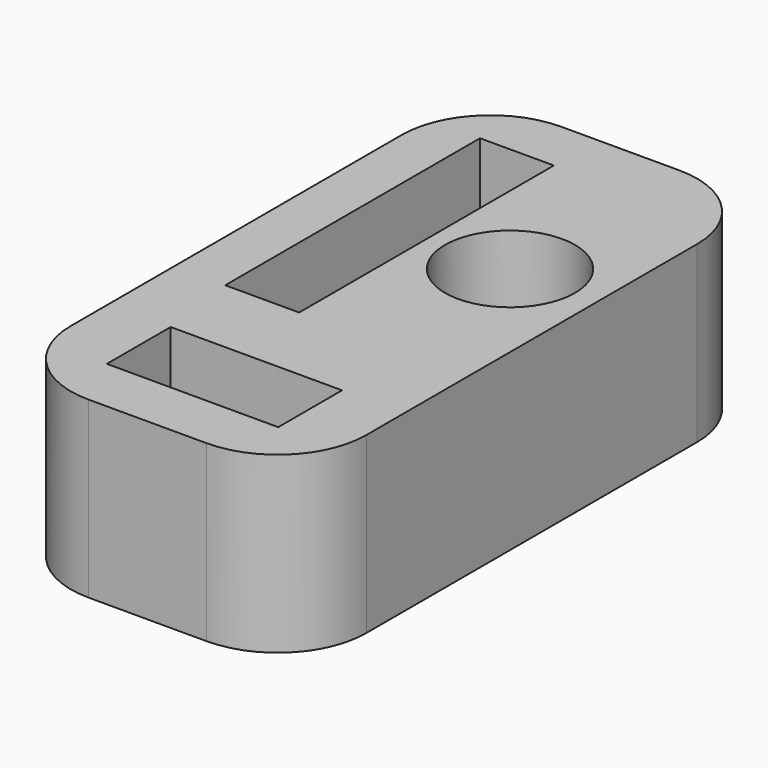
from build123d import *

# Parameters (mm, degrees)
SKETCH010_W     = 10
SKETCH010_H     = 20
PAD004_DEPTH    = 1.2
SKETCH011_R     = 0.7
POCKET004_DEPTH = 1.201
SKETCH012_W     = 10
SKETCH012_H     = 20
PAD005_DEPTH    = 0.2
SKETCH014_W     = 10
SKETCH014_H     = 20
PAD006_DEPTH    = 2
POCKET005_DEPTH = 2
SKETCH015_W     = 10
SKETCH015_H     = 20
PAD007_DEPTH    = 2.5
SKETCH016_R     = 2.2
SKETCH016_W     = 5.8
SKETCH016_H     = 2.7
SKETCH016_W_2   = 2.5
SKETCH016_H_2   = 10.776226
POCKET006_DEPTH = 2.5
FILLET_R        = 3


with BuildPart() as part:
    # Sketch010 → Pad004 (new body)
    with BuildSketch(Plane.XY):
        Rectangle(SKETCH010_W, SKETCH010_H)
    extrude(amount=PAD004_DEPTH)

    # Sketch011 → Pocket004 (cut, through all)
    with BuildSketch(Plane.XY.offset(1.2)):
        with Locations((-1.27, -6.75)):
            Circle(SKETCH011_R)
        with Locations((1.27, -6.75)):
            Circle(SKETCH011_R)
        with Locations((-2, 7.25)):
            Circle(SKETCH011_R)
        with Locations((-2, -1.75)):
            Circle(SKETCH011_R)
        with Locations((2, 4.02)):
            Circle(SKETCH011_R)
        with Locations((2, 1.48)):
            Circle(SKETCH011_R)
    extrude(amount=-POCKET004_DEPTH, mode=Mode.SUBTRACT)

    # Sketch012 → Pad005 (new body)
    with BuildSketch(Plane(origin=(0, 0, 0), x_dir=(1, 0, 0), z_dir=(0, 0, -1))):
        Rectangle(SKETCH012_W, SKETCH012_H)
    extrude(amount=PAD005_DEPTH)

    # Sketch014 → Pad006 (new body)
    with BuildSketch(Plane(origin=(0, 0, -0.2), x_dir=(1, 0, 0), z_dir=(0, 0, -1))):
        Rectangle(SKETCH014_W, SKETCH014_H)
    extrude(amount=PAD006_DEPTH)

    # Sketch013 → Pocket005 (cut)
    with BuildSketch(Plane(origin=(0, 0, -2.2), x_dir=(1, 0, 0), z_dir=(0, 0, -1))):
        Polygon((-3.80896, 8.420167), (3.62375, 8.420167), (3.62375, -5.103398), (0, -7.181223), (0, -8.736001), (-3.696102, -8.736001), (-3.696102, -5.976334), (0.775065, -3.412608), (0.775065, 5.283805), (-0.618984, 5.283805), (-0.618984, 0.458633), (-3.80896, 0.458633), align=None)
    extrude(amount=-POCKET005_DEPTH, mode=Mode.SUBTRACT)

    # Sketch015 → Pad007 (new body)
    with BuildSketch(Plane.XY.offset(1.2)):
        Rectangle(SKETCH015_W, SKETCH015_H)
    extrude(amount=PAD007_DEPTH)

    # Sketch016 → Pocket006 (cut)
    with BuildSketch(Plane.XY.offset(3.7)):
        with Locations((2.024904, 2.79891)):
            Circle(SKETCH016_R)
        with Locations((0, -6.75)):
            Rectangle(SKETCH016_W, SKETCH016_H)
        with Locations((-2.017145, 2.756578)):
            Rectangle(SKETCH016_W_2, SKETCH016_H_2)
    extrude(amount=-POCKET006_DEPTH, mode=Mode.SUBTRACT)

    # Fillet
    fillet_edges = [part.edges().sort_by_distance(p)[0] for p in [
        (5, -10, 0.75),
        (-5, -10, 0.75),
        (5, 10, 0.75),
        (-5, 10, 0.75),
    ]]
    fillet(fillet_edges, radius=FILLET_R)


solid = part.part
